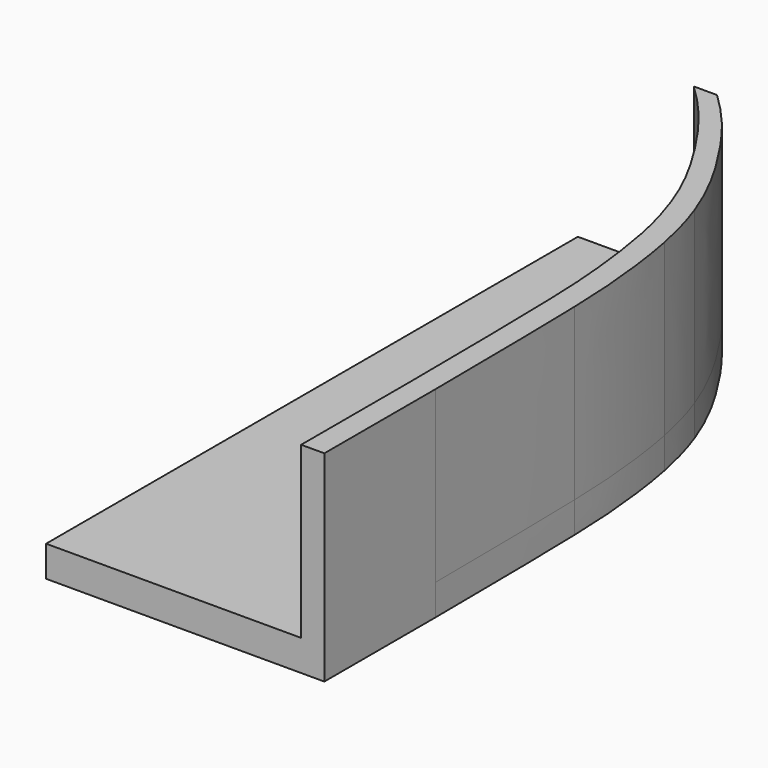
from build123d import *

# Parameters (mm, degrees)
F1_DEPTH = 10
F2_DEPTH = 10
F3_DEPTH = 65


with BuildPart() as f1:
    # F0 (on Top) → F1 (new body)
    with BuildSketch(Plane.XY):
        with BuildLine():
            Line((-6.4156497025, 85.1081629097), (-43.9156497025, 85.1081629097))
            Line((-43.9156497025, 85.1081629097), (-43.9156497025, -129.8918370903))
            Line((-43.9156497025, -129.8918370903), (38.5843502975, -129.8918370903))
            add(Edge.make_bspline(
                [(38.5843502975, -84.8918370903), (38.6629251975, -102.0344655935), (38.6236377475, -115.9631513419), (38.5843502975, -129.8918370903)],
                knots=[0.8384847001, 0.8384847001, 0.8384847001, 0.8384847001, 1, 1, 1, 1], degree=3))
            add(Edge.make_bspline(
                [(37.8247797489, -27.7212038636), (38.2574592427, -42.1620939878), (38.4957809909, -65.568736192), (38.5843502975, -84.8918370903)],
                knots=[0.656425313, 0.656425313, 0.656425313, 0.656425313, 0.8384847001, 0.8384847001, 0.8384847001, 0.8384847001], degree=3))
            add(Edge.make_bspline(
                [(36.5943424404, -7.2156004608), (37.2362484349, -13.6305807929), (37.5654292116, -19.0652525968), (37.8247797489, -27.7212038636)],
                knots=[0.5472978861, 0.5472978861, 0.5472978861, 0.5472978861, 0.656425313, 0.656425313, 0.656425313, 0.656425313], degree=3))
            add(Edge.make_bspline(
                [(33.5867255926, 13.7964012101), (34.9662089288, 6.8390445181), (35.9418422096, -0.6947450977), (36.5943424404, -7.2156004608)],
                knots=[0.4363693828, 0.4363693828, 0.4363693828, 0.4363693828, 0.5472978861, 0.5472978861, 0.5472978861, 0.5472978861], degree=3))
            add(Edge.make_bspline(
                [(28.4207668155, 32.5041674078), (30.5793144703, 26.5747507113), (32.2676481423, 20.4491037734), (33.5867255926, 13.7964012101)],
                knots=[0.3302983028, 0.3302983028, 0.3302983028, 0.3302983028, 0.4363693828, 0.4363693828, 0.4363693828, 0.4363693828], degree=3))
            add(Edge.make_bspline(
                [(19.6397788823, 51.1871948838), (23.4681991426, 44.5259897561), (26.1945597605, 38.6194409127), (28.4207668155, 32.5041674078)],
                knots=[0.2209024383, 0.2209024383, 0.2209024383, 0.2209024383, 0.3302983028, 0.3302983028, 0.3302983028, 0.3302983028], degree=3))
            add(Edge.make_bspline(
                [(4.2853341438, 73.7309530377), (9.3823617053, 67.4979864081), (15.2391329379, 58.8440359139), (19.6397788823, 51.1871948838)],
                knots=[0.0951554109, 0.0951554109, 0.0951554109, 0.0951554109, 0.2209024383, 0.2209024383, 0.2209024383, 0.2209024383], degree=3))
            add(Edge.make_bspline(
                [(-6.4156497025, 85.1081629097), (-2.9936715674, 81.7778662113), (0.4283065678, 78.4475695129), (4.2853341438, 73.7309530377)],
                knots=[0, 0, 0, 0, 0.0951554109, 0.0951554109, 0.0951554109, 0.0951554109], degree=3))
        make_face()
    extrude(amount=F1_DEPTH)

    # F0 (on Top) → F2 (join)
    with BuildSketch(Plane.XY):
        with BuildLine():
            Line((-6.4156497025, 85.1081629097), (-43.9156497025, 85.1081629097))
            Line((-43.9156497025, 85.1081629097), (-43.9156497025, -129.8918370903))
            Line((-43.9156497025, -129.8918370903), (38.5843502975, -129.8918370903))
            add(Edge.make_bspline(
                [(38.5843502975, -84.8918370903), (38.6629251975, -102.0344655935), (38.6236377475, -115.9631513419), (38.5843502975, -129.8918370903)],
                knots=[0.8384847001, 0.8384847001, 0.8384847001, 0.8384847001, 1, 1, 1, 1], degree=3))
            add(Edge.make_bspline(
                [(37.8247797489, -27.7212038636), (38.2574592427, -42.1620939878), (38.4957809909, -65.568736192), (38.5843502975, -84.8918370903)],
                knots=[0.656425313, 0.656425313, 0.656425313, 0.656425313, 0.8384847001, 0.8384847001, 0.8384847001, 0.8384847001], degree=3))
            add(Edge.make_bspline(
                [(36.5943424404, -7.2156004608), (37.2362484349, -13.6305807929), (37.5654292116, -19.0652525968), (37.8247797489, -27.7212038636)],
                knots=[0.5472978861, 0.5472978861, 0.5472978861, 0.5472978861, 0.656425313, 0.656425313, 0.656425313, 0.656425313], degree=3))
            add(Edge.make_bspline(
                [(33.5867255926, 13.7964012101), (34.9662089288, 6.8390445181), (35.9418422096, -0.6947450977), (36.5943424404, -7.2156004608)],
                knots=[0.4363693828, 0.4363693828, 0.4363693828, 0.4363693828, 0.5472978861, 0.5472978861, 0.5472978861, 0.5472978861], degree=3))
            add(Edge.make_bspline(
                [(28.4207668155, 32.5041674078), (30.5793144703, 26.5747507113), (32.2676481423, 20.4491037734), (33.5867255926, 13.7964012101)],
                knots=[0.3302983028, 0.3302983028, 0.3302983028, 0.3302983028, 0.4363693828, 0.4363693828, 0.4363693828, 0.4363693828], degree=3))
            add(Edge.make_bspline(
                [(19.6397788823, 51.1871948838), (23.4681991426, 44.5259897561), (26.1945597605, 38.6194409127), (28.4207668155, 32.5041674078)],
                knots=[0.2209024383, 0.2209024383, 0.2209024383, 0.2209024383, 0.3302983028, 0.3302983028, 0.3302983028, 0.3302983028], degree=3))
            add(Edge.make_bspline(
                [(4.2853341438, 73.7309530377), (9.3823617053, 67.4979864081), (15.2391329379, 58.8440359139), (19.6397788823, 51.1871948838)],
                knots=[0.0951554109, 0.0951554109, 0.0951554109, 0.0951554109, 0.2209024383, 0.2209024383, 0.2209024383, 0.2209024383], degree=3))
            add(Edge.make_bspline(
                [(-6.4156497025, 85.1081629097), (-2.9936715674, 81.7778662113), (0.4283065678, 78.4475695129), (4.2853341438, 73.7309530377)],
                knots=[0, 0, 0, 0, 0.0951554109, 0.0951554109, 0.0951554109, 0.0951554109], degree=3))
        make_face()
        with BuildLine():
            Line((1.0843502975, 85.1081629097), (-6.4156497025, 85.1081629097))
            add(Edge.make_bspline(
                [(-6.4156497025, 85.1081629097), (-2.9936715674, 81.7778662113), (0.4283065678, 78.4475695129), (4.2853341438, 73.7309530377)],
                knots=[0, 0, 0, 0, 0.0951554109, 0.0951554109, 0.0951554109, 0.0951554109], degree=3))
            Line((4.2853341438, 73.7309530377), (11.7853341438, 73.7309530377))
            add(Edge.make_bspline(
                [(11.7853341438, 73.7309530377), (7.9263211871, 78.4469803122), (4.4998545709, 81.7753394458), (1.0843502975, 85.1081629097)],
                knots=[0.8865149152, 0.8865149152, 0.8865149152, 0.8865149152, 1, 1, 1, 1], degree=3))
        make_face()
        with BuildLine():
            Line((11.7853341438, 73.7309530377), (4.2853341438, 73.7309530377))
            add(Edge.make_bspline(
                [(4.2853341438, 73.7309530377), (9.3823617053, 67.4979864081), (15.2391329379, 58.8440359139), (19.6397788823, 51.1871948838)],
                knots=[0.0951554109, 0.0951554109, 0.0951554109, 0.0951554109, 0.2209024383, 0.2209024383, 0.2209024383, 0.2209024383], degree=3))
            Line((19.6397788823, 51.1871948838), (27.1397788823, 51.1871948838))
            add(Edge.make_bspline(
                [(27.1397788823, 51.1871948838), (22.7400090025, 58.8432384602), (16.8849853681, 67.4987650316), (11.7853341438, 73.7309530377)],
                knots=[0.7365453872, 0.7365453872, 0.7365453872, 0.7365453872, 0.8865149152, 0.8865149152, 0.8865149152, 0.8865149152], degree=3))
        make_face()
        with BuildLine():
            Line((27.1397788823, 51.1871948838), (19.6397788823, 51.1871948838))
            add(Edge.make_bspline(
                [(19.6397788823, 51.1871948838), (23.4681991426, 44.5259897561), (26.1945597605, 38.6194409127), (28.4207668155, 32.5041674078)],
                knots=[0.2209024383, 0.2209024383, 0.2209024383, 0.2209024383, 0.3302983028, 0.3302983028, 0.3302983028, 0.3302983028], degree=3))
            Line((28.4207668155, 32.5041674078), (35.9207659553, 32.5005751986))
            add(Edge.make_bspline(
                [(35.9207659553, 32.5005751986), (33.6941243555, 38.6216951614), (30.9677383505, 44.5261591256), (27.1397788823, 51.1871948838)],
                knots=[0.6060664552, 0.6060664552, 0.6060664552, 0.6060664552, 0.7365453872, 0.7365453872, 0.7365453872, 0.7365453872], degree=3))
        make_face()
        with BuildLine():
            Line((35.9207659553, 32.5005751986), (28.4207668155, 32.5041674078))
            add(Edge.make_bspline(
                [(28.4207668155, 32.5041674078), (30.5793144703, 26.5747507113), (32.2676481423, 20.4491037734), (33.5867255926, 13.7964012101)],
                knots=[0.3302983028, 0.3302983028, 0.3302983028, 0.3302983028, 0.4363693828, 0.4363693828, 0.4363693828, 0.4363693828], degree=3))
            Line((33.5867255926, 13.7964012101), (41.0867255926, 13.7964012101))
            add(Edge.make_bspline(
                [(41.0867255926, 13.7964012101), (39.7683073236, 20.4287791205), (38.0793724104, 26.5664863603), (35.9207659553, 32.5005751986)],
                knots=[0.4795743136, 0.4795743136, 0.4795743136, 0.4795743136, 0.6060664552, 0.6060664552, 0.6060664552, 0.6060664552], degree=3))
        make_face()
        with BuildLine():
            Line((41.0867255926, 13.7964012101), (33.5867255926, 13.7964012101))
            add(Edge.make_bspline(
                [(33.5867255926, 13.7964012101), (34.9662089288, 6.8390445181), (35.9418422096, -0.6947450977), (36.5943424404, -7.2156004608)],
                knots=[0.4363693828, 0.4363693828, 0.4363693828, 0.4363693828, 0.5472978861, 0.5472978861, 0.5472978861, 0.5472978861], degree=3))
            Line((36.5943424404, -7.2156004608), (44.0943424404, -7.2156004608))
            add(Edge.make_bspline(
                [(44.0943424404, -7.2156004608), (43.4392586722, -0.6181494471), (42.4656425654, 6.8596811378), (41.0867255926, 13.7964012101)],
                knots=[0.3472777843, 0.3472777843, 0.3472777843, 0.3472777843, 0.4795743136, 0.4795743136, 0.4795743136, 0.4795743136], degree=3))
        make_face()
        with BuildLine():
            add(Edge.make_bspline(
                [(36.5943424404, -7.2156004608), (37.2362484349, -13.6305807929), (37.5654292116, -19.0652525968), (37.8247797489, -27.7212038636)],
                knots=[0.5472978861, 0.5472978861, 0.5472978861, 0.5472978861, 0.656425313, 0.656425313, 0.656425313, 0.656425313], degree=3))
            Line((37.8247797489, -27.7212038636), (45.3247797489, -27.7212038636))
            add(Edge.make_bspline(
                [(45.3247797489, -27.7212038636), (45.0749649187, -19.3442418385), (44.7387900251, -13.7059328081), (44.0943424404, -7.2156004608)],
                knots=[0.2171292707, 0.2171292707, 0.2171292707, 0.2171292707, 0.3472777843, 0.3472777843, 0.3472777843, 0.3472777843], degree=3))
            Line((44.0943424404, -7.2156004608), (36.5943424404, -7.2156004608))
        make_face()
        with BuildLine():
            add(Edge.make_bspline(
                [(37.8247797489, -27.7212038636), (38.2574592427, -42.1620939878), (38.4957809909, -65.568736192), (38.5843502975, -84.8918370903)],
                knots=[0.656425313, 0.656425313, 0.656425313, 0.656425313, 0.8384847001, 0.8384847001, 0.8384847001, 0.8384847001], degree=3))
            Line((38.5843502975, -84.8918370903), (46.0843502975, -84.8918370903))
            add(Edge.make_bspline(
                [(46.0843502975, -84.8918370903), (45.9179565044, -63.2945609487), (45.7415506391, -41.6966508653), (45.3247797489, -27.7212038636)],
                knots=[0, 0, 0, 0, 0.2171292707, 0.2171292707, 0.2171292707, 0.2171292707], degree=3))
            Line((45.3247797489, -27.7212038636), (37.8247797489, -27.7212038636))
        make_face()
    extrude(amount=F2_DEPTH)

    # F0 (on Top) → F3 (join)
    with BuildSketch(Plane.XY):
        with BuildLine():
            add(Edge.make_bspline(
                [(38.5843502975, -84.8918370903), (38.6629251975, -102.0344655935), (38.6236377475, -115.9631513419), (38.5843502975, -129.8918370903)],
                knots=[0.8384847001, 0.8384847001, 0.8384847001, 0.8384847001, 1, 1, 1, 1], degree=3))
            Line((38.5843502975, -129.8918370903), (46.0843502975, -129.8918370903))
            Line((46.0843502975, -129.8918370903), (46.0843502975, -84.8918370903))
            Line((46.0843502975, -84.8918370903), (38.5843502975, -84.8918370903))
        make_face()
        with BuildLine():
            add(Edge.make_bspline(
                [(37.8247797489, -27.7212038636), (38.2574592427, -42.1620939878), (38.4957809909, -65.568736192), (38.5843502975, -84.8918370903)],
                knots=[0.656425313, 0.656425313, 0.656425313, 0.656425313, 0.8384847001, 0.8384847001, 0.8384847001, 0.8384847001], degree=3))
            Line((38.5843502975, -84.8918370903), (46.0843502975, -84.8918370903))
            add(Edge.make_bspline(
                [(46.0843502975, -84.8918370903), (45.9179565044, -63.2945609487), (45.7415506391, -41.6966508653), (45.3247797489, -27.7212038636)],
                knots=[0, 0, 0, 0, 0.2171292707, 0.2171292707, 0.2171292707, 0.2171292707], degree=3))
            Line((45.3247797489, -27.7212038636), (37.8247797489, -27.7212038636))
        make_face()
        with BuildLine():
            add(Edge.make_bspline(
                [(36.5943424404, -7.2156004608), (37.2362484349, -13.6305807929), (37.5654292116, -19.0652525968), (37.8247797489, -27.7212038636)],
                knots=[0.5472978861, 0.5472978861, 0.5472978861, 0.5472978861, 0.656425313, 0.656425313, 0.656425313, 0.656425313], degree=3))
            Line((37.8247797489, -27.7212038636), (45.3247797489, -27.7212038636))
            add(Edge.make_bspline(
                [(45.3247797489, -27.7212038636), (45.0749649187, -19.3442418385), (44.7387900251, -13.7059328081), (44.0943424404, -7.2156004608)],
                knots=[0.2171292707, 0.2171292707, 0.2171292707, 0.2171292707, 0.3472777843, 0.3472777843, 0.3472777843, 0.3472777843], degree=3))
            Line((44.0943424404, -7.2156004608), (36.5943424404, -7.2156004608))
        make_face()
        with BuildLine():
            Line((41.0867255926, 13.7964012101), (33.5867255926, 13.7964012101))
            add(Edge.make_bspline(
                [(33.5867255926, 13.7964012101), (34.9662089288, 6.8390445181), (35.9418422096, -0.6947450977), (36.5943424404, -7.2156004608)],
                knots=[0.4363693828, 0.4363693828, 0.4363693828, 0.4363693828, 0.5472978861, 0.5472978861, 0.5472978861, 0.5472978861], degree=3))
            Line((36.5943424404, -7.2156004608), (44.0943424404, -7.2156004608))
            add(Edge.make_bspline(
                [(44.0943424404, -7.2156004608), (43.4392586722, -0.6181494471), (42.4656425654, 6.8596811378), (41.0867255926, 13.7964012101)],
                knots=[0.3472777843, 0.3472777843, 0.3472777843, 0.3472777843, 0.4795743136, 0.4795743136, 0.4795743136, 0.4795743136], degree=3))
        make_face()
        with BuildLine():
            Line((35.9207659553, 32.5005751986), (28.4207668155, 32.5041674078))
            add(Edge.make_bspline(
                [(28.4207668155, 32.5041674078), (30.5793144703, 26.5747507113), (32.2676481423, 20.4491037734), (33.5867255926, 13.7964012101)],
                knots=[0.3302983028, 0.3302983028, 0.3302983028, 0.3302983028, 0.4363693828, 0.4363693828, 0.4363693828, 0.4363693828], degree=3))
            Line((33.5867255926, 13.7964012101), (41.0867255926, 13.7964012101))
            add(Edge.make_bspline(
                [(41.0867255926, 13.7964012101), (39.7683073236, 20.4287791205), (38.0793724104, 26.5664863603), (35.9207659553, 32.5005751986)],
                knots=[0.4795743136, 0.4795743136, 0.4795743136, 0.4795743136, 0.6060664552, 0.6060664552, 0.6060664552, 0.6060664552], degree=3))
        make_face()
        with BuildLine():
            Line((27.1397788823, 51.1871948838), (19.6397788823, 51.1871948838))
            add(Edge.make_bspline(
                [(19.6397788823, 51.1871948838), (23.4681991426, 44.5259897561), (26.1945597605, 38.6194409127), (28.4207668155, 32.5041674078)],
                knots=[0.2209024383, 0.2209024383, 0.2209024383, 0.2209024383, 0.3302983028, 0.3302983028, 0.3302983028, 0.3302983028], degree=3))
            Line((28.4207668155, 32.5041674078), (35.9207659553, 32.5005751986))
            add(Edge.make_bspline(
                [(35.9207659553, 32.5005751986), (33.6941243555, 38.6216951614), (30.9677383505, 44.5261591256), (27.1397788823, 51.1871948838)],
                knots=[0.6060664552, 0.6060664552, 0.6060664552, 0.6060664552, 0.7365453872, 0.7365453872, 0.7365453872, 0.7365453872], degree=3))
        make_face()
        with BuildLine():
            Line((1.0843502975, 85.1081629097), (-6.4156497025, 85.1081629097))
            add(Edge.make_bspline(
                [(-6.4156497025, 85.1081629097), (-2.9936715674, 81.7778662113), (0.4283065678, 78.4475695129), (4.2853341438, 73.7309530377)],
                knots=[0, 0, 0, 0, 0.0951554109, 0.0951554109, 0.0951554109, 0.0951554109], degree=3))
            Line((4.2853341438, 73.7309530377), (11.7853341438, 73.7309530377))
            add(Edge.make_bspline(
                [(11.7853341438, 73.7309530377), (7.9263211871, 78.4469803122), (4.4998545709, 81.7753394458), (1.0843502975, 85.1081629097)],
                knots=[0.8865149152, 0.8865149152, 0.8865149152, 0.8865149152, 1, 1, 1, 1], degree=3))
        make_face()
        with BuildLine():
            Line((11.7853341438, 73.7309530377), (4.2853341438, 73.7309530377))
            add(Edge.make_bspline(
                [(4.2853341438, 73.7309530377), (9.3823617053, 67.4979864081), (15.2391329379, 58.8440359139), (19.6397788823, 51.1871948838)],
                knots=[0.0951554109, 0.0951554109, 0.0951554109, 0.0951554109, 0.2209024383, 0.2209024383, 0.2209024383, 0.2209024383], degree=3))
            Line((19.6397788823, 51.1871948838), (27.1397788823, 51.1871948838))
            add(Edge.make_bspline(
                [(27.1397788823, 51.1871948838), (22.7400090025, 58.8432384602), (16.8849853681, 67.4987650316), (11.7853341438, 73.7309530377)],
                knots=[0.7365453872, 0.7365453872, 0.7365453872, 0.7365453872, 0.8865149152, 0.8865149152, 0.8865149152, 0.8865149152], degree=3))
        make_face()
    extrude(amount=F3_DEPTH)


solid = f1.part
